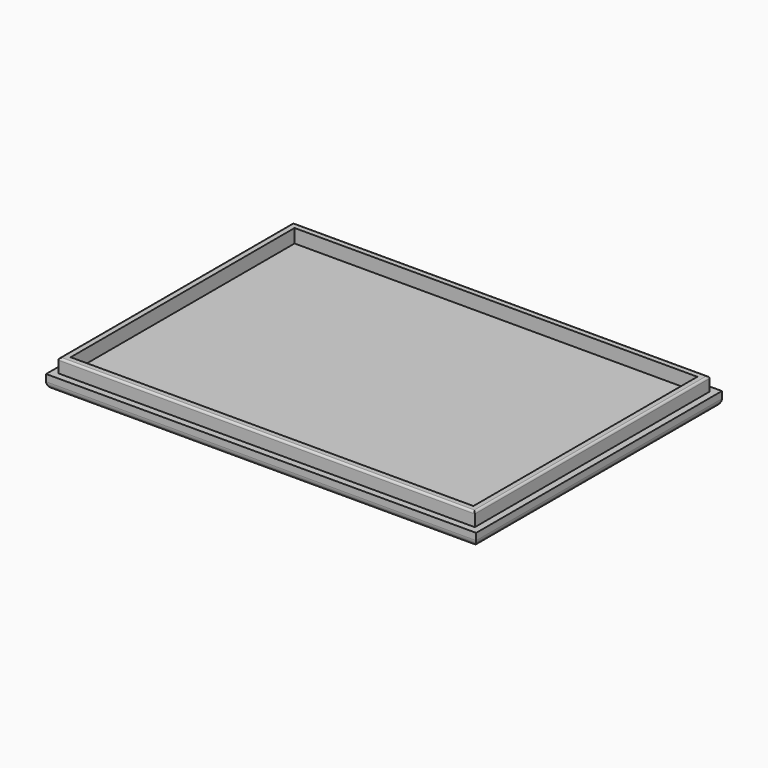
from build123d import *

# Parameters (mm, degrees)
SKETCH_W     = 63
SKETCH_H     = 45
PAD_DEPTH    = 2
SKETCH002_W  = 61
SKETCH002_H  = 43
PAD001_DEPTH = 4
SKETCH003_W  = 59
SKETCH003_H  = 41
POCKET_DEPTH = 2
FILLET_R     = 1
FILLET001_R  = 0.3


with BuildPart() as part:
    # Sketch → Pad (new body)
    with BuildSketch(Plane.XY):
        Rectangle(SKETCH_W, SKETCH_H)
    extrude(amount=PAD_DEPTH)

    # Sketch002 → Pad001 (join)
    with BuildSketch(Plane.XY):
        Rectangle(SKETCH002_W, SKETCH002_H)
    extrude(amount=PAD001_DEPTH)

    # Sketch003 → Pocket (cut)
    with BuildSketch(Plane.XY.offset(4)):
        Rectangle(SKETCH003_W, SKETCH003_H)
    extrude(amount=-POCKET_DEPTH, mode=Mode.SUBTRACT)

    # Fillet
    fillet_edges = [part.edges().sort_by_distance(p)[0] for p in [
        (0, -22.5, 0),
        (31.5, 0, 0),
        (-31.5, 0, 0),
        (0, 22.5, 0),
    ]]
    fillet(fillet_edges, radius=FILLET_R)

    # Fillet001
    fillet001_edges = [part.edges().sort_by_distance(p)[0] for p in [
        (30.5, 0, 4),
        (0, 21.5, 4),
        (0, -21.5, 4),
        (-30.5, 0, 4),
    ]]
    fillet(fillet001_edges, radius=FILLET001_R)


solid = part.part
